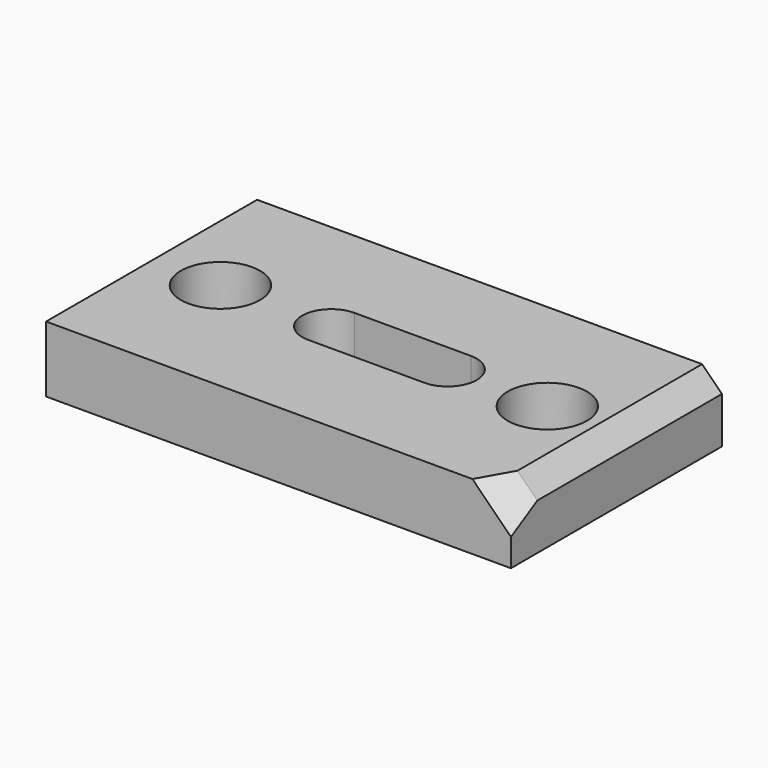
from build123d import *

# Parameters (mm, degrees)
SKETCH_W         = 70.38591
SKETCH_H         = 39.932888
SKETCH_R         = 6
PAD_DEPTH        = 10
CHAMFER_SIZE     = 3
CHAMFER001_SIZE2 = 5
CHAMFER001_SIZE  = 2


with BuildPart() as part:
    # Sketch → Pad (new body)
    with BuildSketch(Plane.XY):
        with Locations((35.192955, 19.966444)):
            Rectangle(SKETCH_W, SKETCH_H)
        with Locations((10.318798, 20.099125)):
            Circle(SKETCH_R, mode=Mode.SUBTRACT)
        with Locations((59.81543, 20.099125)):
            Circle(SKETCH_R, mode=Mode.SUBTRACT)
        with BuildLine():
            ThreePointArc((27.097306, 24.503486), (22.692945, 20.099125), (27.097306, 15.694764))
            Line((27.097306, 15.694764), (44.71476, 15.694764))
            ThreePointArc((44.71476, 15.694764), (49.119121, 20.099125), (44.71476, 24.503486))
            Line((44.71476, 24.503486), (27.097306, 24.503486))
        make_face(mode=Mode.SUBTRACT)
    extrude(amount=PAD_DEPTH)

    # Chamfer
    chamfer_edges = [part.edges().sort_by_distance(p)[0] for p in [
        (70.38591, 19.966444, 10),
    ]]
    chamfer(chamfer_edges, length=CHAMFER_SIZE)

    # Chamfer001
    chamfer001_edges = [part.edges().sort_by_distance(p)[0] for p in [
        (68.88591, 0, 8.5),
    ]]
    chamfer001_side = part.faces().sort_by_distance((34.972942, 0, 4.974262))[0]
    chamfer(chamfer001_edges, length=CHAMFER001_SIZE, length2=CHAMFER001_SIZE2, reference=chamfer001_side)


solid = part.part
